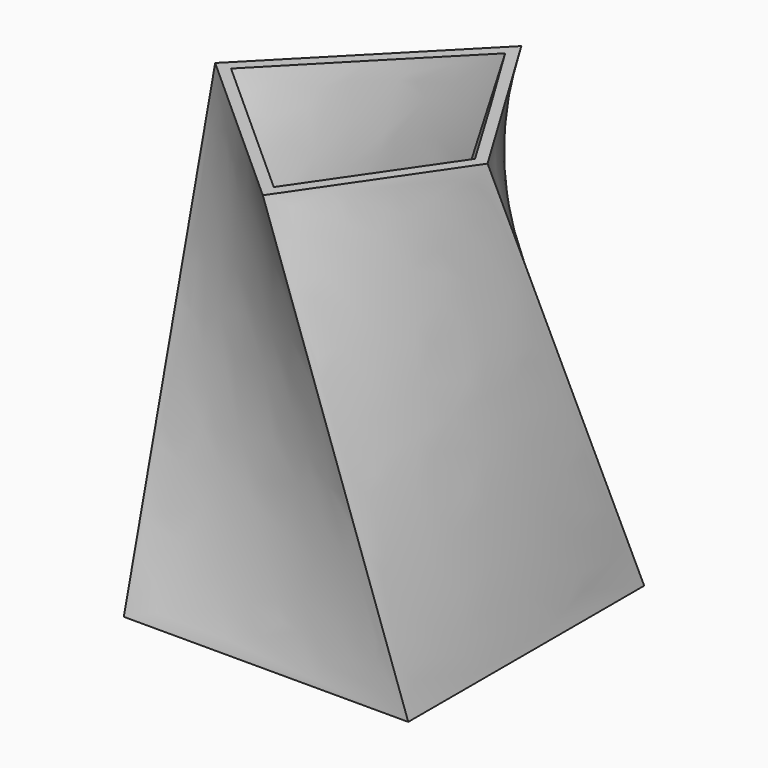
from build123d import *

# Parameters (mm, degrees)
F0_W = 68.9707696438
F0_H = 71.5107694268
F4_T = -2.54


with BuildPart() as f3:
    # F0 (on Top) → F3 section 0
    with BuildSketch(Plane.XY):
        Rectangle(F0_W, F0_H)
    # F2 (on offset) → F3 section 1
    with BuildSketch(Plane.XY.offset(101.6)):
        Polygon((25.1069236547, 0), (0, 41.6169241071), (-40.9330762923, 0), (0, -36.7323085666), align=None)
    loft()

    # F4
    f4_openings = [f3.faces().sort_by_distance(p)[0] for p in [
        (-5.275384, 1.628205, 101.6),
    ]]
    offset(amount=F4_T, openings=f4_openings, kind=Kind.INTERSECTION)


solid = f3.part
